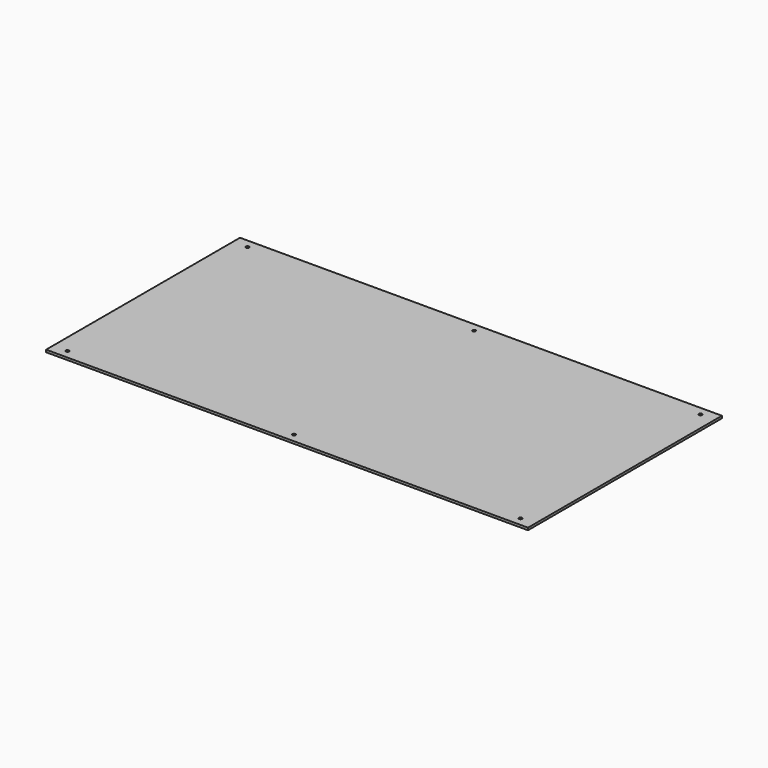
from build123d import *

# Parameters (mm, degrees)
F0_W     = 835
F0_H     = 420
F0_R     = 2.75
F1_DEPTH = 4


with BuildPart() as f1:
    # F0 (on Top) → F1 (new body)
    with BuildSketch(Plane.XY):
        Rectangle(F0_W, F0_H)
        with Locations((-392.5, -195)):
            Circle(F0_R, mode=Mode.SUBTRACT)
        with Locations((0, -195)):
            Circle(F0_R, mode=Mode.SUBTRACT)
        with Locations((392.5, -195)):
            Circle(F0_R, mode=Mode.SUBTRACT)
        with Locations((-392.5, 195)):
            Circle(F0_R, mode=Mode.SUBTRACT)
        with Locations((0, 195)):
            Circle(F0_R, mode=Mode.SUBTRACT)
        with Locations((392.5, 195)):
            Circle(F0_R, mode=Mode.SUBTRACT)
    extrude(amount=F1_DEPTH)


solid = f1.part
